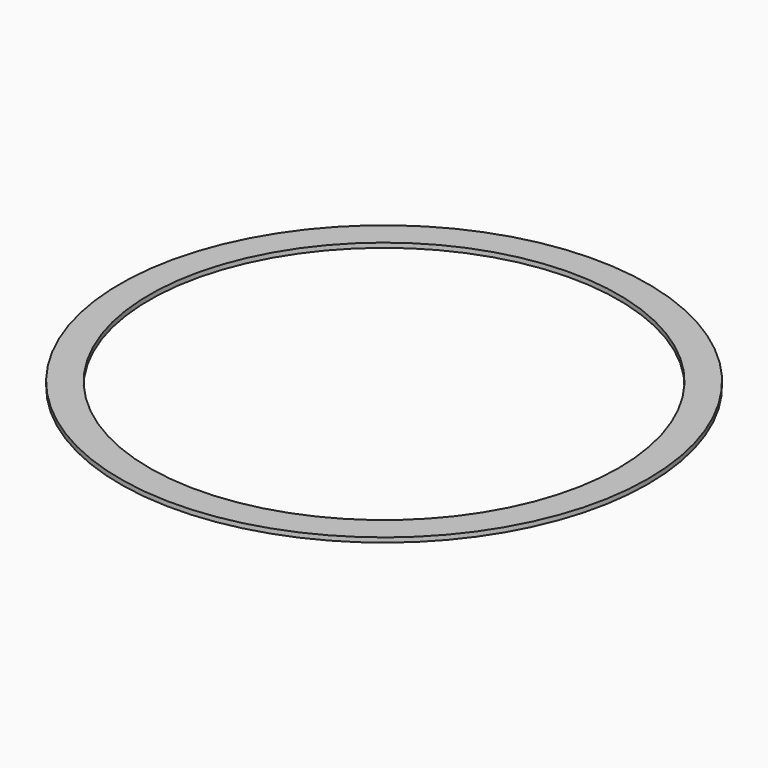
from build123d import *

# Parameters (mm, degrees)
SKETCH_R      = 114.3
SKETCH_R_2    = 101.6
EXTRUDE_DEPTH = 2


with BuildPart() as part:
    # Sketch → Extrude (new body)
    with BuildSketch(Plane.XY):
        Circle(SKETCH_R)
        Circle(SKETCH_R_2, mode=Mode.SUBTRACT)
    extrude(amount=EXTRUDE_DEPTH)


solid = part.part
